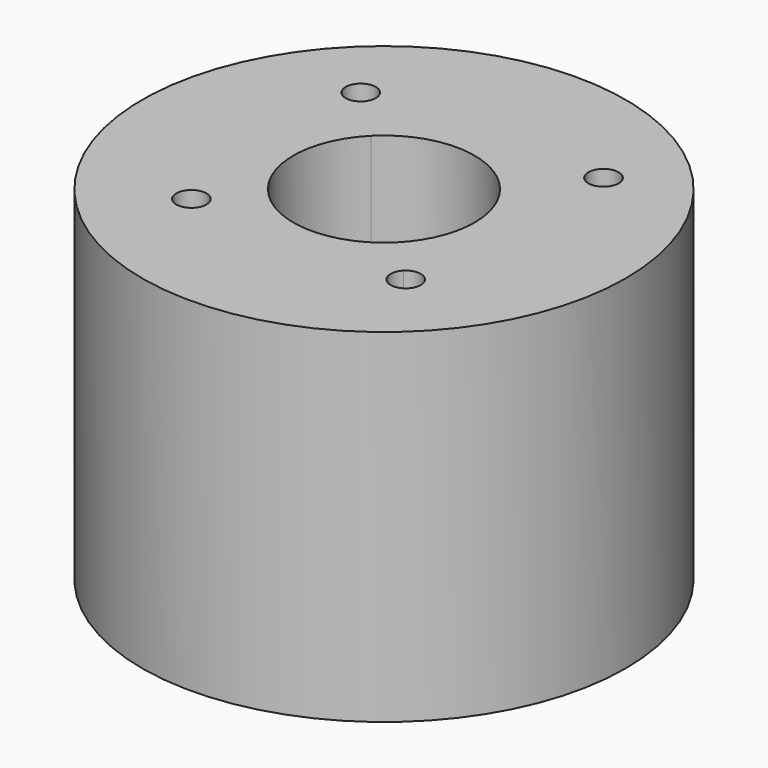
from build123d import *

# Parameters (mm, degrees)
F0_R     = 25.4
F1_DEPTH = 36.068


with BuildPart() as f1:
    # F0 (on Top) → F1 (new body)
    with BuildSketch(Plane.XY):
        Circle(F0_R)
        with BuildLine():
            ThreePointArc((-9.65094, -11.23844), (-12.705099, -11.84595), (-10.115908, -10.115908))
            ThreePointArc((-10.115908, -10.115908), (-9.771782, -10.63093), (-9.65094, -11.23844))
        make_face(mode=Mode.SUBTRACT)
        with BuildLine():
            ThreePointArc((6.735192, 6.735192), (8.799953, 3.64506), (9.525, 0))
            ThreePointArc((9.525, 0), (8.799953, -3.64506), (6.735192, -6.735192))
            ThreePointArc((6.735192, -6.735192), (0, -9.525), (-6.735192, -6.735192))
            ThreePointArc((-6.735192, -6.735192), (-9.525, 0), (-6.735192, 6.735192))
            ThreePointArc((-6.735192, 6.735192), (0, 9.525), (6.735192, 6.735192))
        make_face(mode=Mode.SUBTRACT)
        with BuildLine():
            ThreePointArc((13.013662, -11.426162), (10.818652, -12.89282), (10.30363, -10.30363))
            ThreePointArc((10.30363, -10.30363), (12.033672, -9.959503), (13.013662, -11.426162))
        make_face(mode=Mode.SUBTRACT)
        with BuildLine():
            ThreePointArc((-10.614005, 12.201505), (-10.734846, 11.593995), (-11.078973, 11.078973))
            ThreePointArc((-11.078973, 11.078973), (-13.668164, 12.809015), (-10.614005, 12.201505))
        make_face(mode=Mode.SUBTRACT)
        with BuildLine():
            ThreePointArc((14.401124, 12.813624), (13.421134, 11.346965), (11.691092, 11.691092))
            ThreePointArc((11.691092, 11.691092), (12.206114, 14.280283), (14.401124, 12.813624))
        make_face(mode=Mode.SUBTRACT)
    extrude(amount=F1_DEPTH)


solid = f1.part
